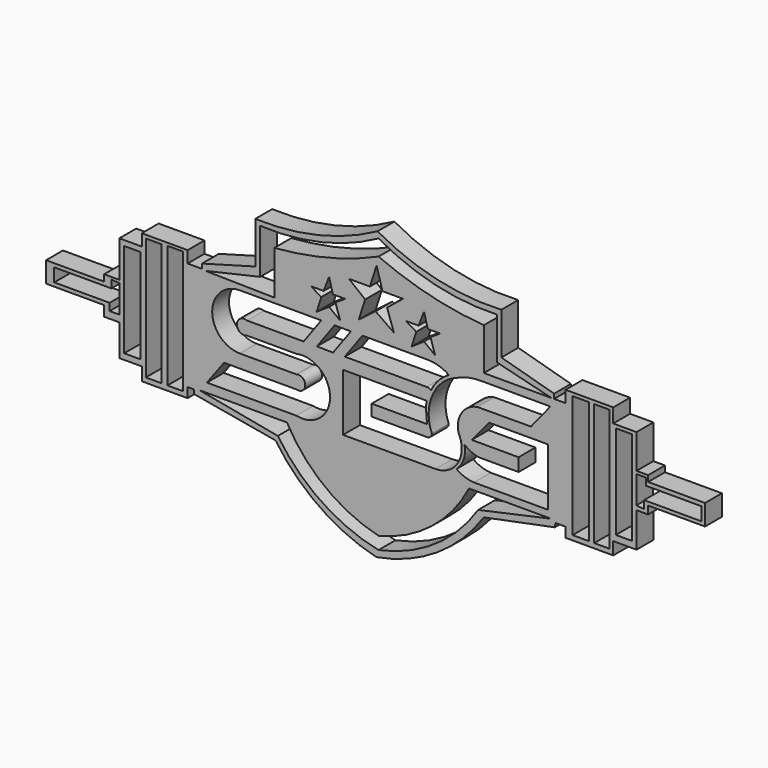
from build123d import *

# Parameters (mm, degrees)
F2_DEPTH = 4
F0_W     = 2.917025
F0_H     = 23.336196
F0_W_2   = 3.025058
F0_H_2   = 23.228157
F0_W_3   = 3.133103
F0_H_3   = 17.934299
F0_W_4   = 3.1331
F0_W_5   = 2.917021
F0_W_6   = 3.025062
F0_H_4   = 17.826262
F3_DEPTH = 25


with BuildPart() as f2:
    # F1 (on Front) → F2 (new body)
    with BuildSketch(Plane.XZ):
        with BuildLine():
            Line((-59.010106, 19.402372), (-59.010106, 15.476667))
            Line((-59.010106, 15.476667), (-47.978758, 15.476667))
            Line((-47.978758, 15.476667), (-47.978758, 13.535213))
            Line((-47.978758, 13.535213), (-45.105844, 13.535213))
            Line((-45.105844, 13.535213), (-45.105844, 7.55553))
            Line((-45.105844, 7.55553), (-40.838248, 7.55553))
            Line((-40.838248, 7.55553), (-40.838248, 5.070467))
            Line((-40.838248, 5.070467), (-32.13955, 5.070467))
            Line((-32.13955, 5.070467), (-32.13955, 6.934264))
            Line((-32.13955, 6.934264), (-30.894838, 6.934264))
            Line((-30.894838, 6.934264), (-30.894838, 6.157682))
            Line((-30.894838, 6.157682), (-15.438591, 3.439646))
            ThreePointArc((-15.438591, 3.439646), (-7.093662, -4.952285), (3.686931, -9.835028))
            ThreePointArc((3.686931, -9.835028), (15.237804, -5.286663), (24.067403, 3.439646))
            Line((24.067403, 3.439646), (37.572917, 6.157682))
            Line((37.572917, 6.157682), (37.709482, 6.934264))
            Line((37.709482, 6.934264), (39.640193, 6.934264))
            Line((39.640193, 6.934264), (39.640193, 5.070467))
            Line((39.640193, 5.070467), (48.666832, 5.070467))
            Line((48.666832, 5.070467), (48.666832, 7.466734))
            Line((48.666832, 7.466734), (53.08931, 7.466734))
            Line((53.08931, 7.466734), (53.08931, 14.068854))
            Line((53.08931, 14.068854), (55.296071, 14.068854))
            Line((55.296071, 14.068854), (55.296071, 15.567532))
            Line((55.296071, 15.567532), (66.105202, 15.567532))
            Line((66.105202, 15.567532), (66.105202, 19.507016))
            Line((66.105202, 19.507016), (55.296071, 19.507016))
            Line((55.296071, 19.507016), (55.296071, 20.643265))
            Line((55.296071, 20.643265), (53.08931, 20.643265))
            Line((53.08931, 20.643265), (53.08931, 27.12328))
            Line((53.08931, 27.12328), (48.666832, 27.12328))
            Line((48.666832, 27.12328), (48.666832, 29.817613))
            Line((48.666832, 29.817613), (39.622009, 29.817613))
            Line((39.622009, 29.817613), (39.622009, 27.58422))
            Line((39.622009, 27.58422), (37.442562, 27.58422))
            Line((37.442562, 27.58422), (37.442562, 28.464854))
            Line((37.442562, 28.464854), (27.430805, 31.257833))
            Line((27.430805, 31.257833), (27.430805, 39.227596))
            ThreePointArc((27.430805, 39.227596), (15.289618, 40.301637), (3.919085, 44.691733))
            ThreePointArc((3.919085, 44.691733), (-7.319875, 40.399028), (-19.293567, 39.227596))
            Line((-19.293567, 39.227596), (-19.293567, 31.257833))
            Line((-19.293567, 31.257833), (-29.408993, 28.464854))
            Line((-29.408993, 28.464854), (-29.408993, 27.58422))
            Line((-29.408993, 27.58422), (-32.13955, 27.58422))
            Line((-32.13955, 27.58422), (-32.13955, 29.817613))
            Line((-32.13955, 29.817613), (-40.838248, 29.817613))
            Line((-40.838248, 29.817613), (-40.838248, 27.58422))
            Line((-40.838248, 27.58422), (-45.105844, 27.58422))
            Line((-45.105844, 27.58422), (-45.105844, 20.643265))
            Line((-45.105844, 20.643265), (-47.978758, 20.643265))
            Line((-47.978758, 20.643265), (-47.978758, 19.402372))
            Line((-47.978758, 19.402372), (-59.010106, 19.402372))
        make_face()
    extrude(amount=F2_DEPTH)

    # F0 (on Front) → F3 (cut)
    with BuildSketch(Plane.XZ):
        with BuildLine():
            Line((-18.360175, 29.837262), (-28.731817, 27.460426))
            Line((-28.731817, 27.460426), (-15.659228, 27.24435))
            Line((-15.659228, 27.24435), (-15.659228, 35.563271))
            ThreePointArc((-15.659228, 35.563271), (-5.560472, 37.199644), (4.111716, 40.533017))
            ThreePointArc((4.111716, 40.533017), (13.897301, 37.211928), (24.098735, 35.563271))
            Line((24.098735, 35.563271), (24.098735, 27.568465))
            Line((24.098735, 27.568465), (36.955252, 27.568465))
            Line((36.955252, 27.568465), (26.583608, 30.161375))
            Line((26.583608, 30.161375), (26.583608, 38.156182))
            ThreePointArc((26.583608, 38.156182), (14.970461, 39.287974), (4.111716, 43.55808))
            ThreePointArc((4.111716, 43.55808), (-6.762464, 39.397518), (-18.360175, 38.37226))
            Line((-18.360175, 38.37226), (-18.360175, 29.837262))
        make_face()
        with BuildLine():
            Line((-13.282392, 7.149293), (-29.920235, 7.149293))
            Line((-29.920235, 7.149293), (-15.011, 4.340306))
            ThreePointArc((-15.011, 4.340306), (-6.711737, -3.965185), (4.111716, -8.516208))
            ThreePointArc((4.111716, -8.516208), (14.859618, -3.991748), (23.018356, 4.340306))
            Line((23.018356, 4.340306), (36.847211, 7.365369))
            Line((36.847211, 7.365369), (21.289749, 7.365369))
            ThreePointArc((21.289749, 7.365369), (14.169619, -1.255427), (4.111716, -6.139375))
            ThreePointArc((4.111716, -6.139375), (-5.975783, -1.315054), (-13.282392, 7.149293))
        make_face()
        with Locations((-34.511848, 17.628974)):
            Rectangle(F0_W, F0_H)
        with Locations((-38.563272, 17.574955)):
            Rectangle(F0_W_2, F0_H_2)
        with Locations((-42.614694, 17.628974)):
            Rectangle(F0_W_3, F0_H_3)
        with Locations((42.519206, 17.574955)):
            Rectangle(F0_W_4, F0_H_2)
        with Locations((46.516609, 17.574955)):
            Rectangle(F0_W_5, F0_H_2)
        with Locations((50.67607, 17.574955)):
            Rectangle(F0_W_6, F0_H_4)
        Polygon((-45.113314, 14.824063), (-45.113314, 20.089325), (-46.601322, 20.203786), (-46.601322, 18.715777), (-57.460032, 18.715777), (-57.460032, 16.197609), (-46.944711, 16.197609), (-46.944711, 14.824063), align=None)
        Polygon((53.042778, 20.115187), (53.042778, 14.849925), (54.530785, 14.735464), (54.530785, 16.223473), (65.389496, 16.223473), (65.389496, 18.741641), (54.874175, 18.741641), (54.874175, 20.115187), align=None)
        Polygon((-6.307463, 31.403811), (-8.711336, 31.403811), (-6.762973, 30.222766), (-7.628314, 27.481353), (-5.277231, 29.067773), (-3.193445, 27.481353), (-4.058785, 30.222766), (-2.219936, 31.403811), (-4.563566, 31.403811), (-5.277231, 34.093976), align=None)
        Polygon((0.340029, 28.745491), (3.549, 31.200001), (7.019212, 28.782552), (5.719735, 32.533981), (8.75185, 34.985866), (4.853417, 34.985866), (3.746455, 38.942028), (2.467324, 34.985866), (-1.498819, 34.985866), (1.565928, 32.533981), align=None)
        Polygon((11.720847, 31.469355), (9.316974, 31.469355), (11.265337, 30.288311), (10.399996, 27.546898), (12.75108, 29.133318), (14.834866, 27.546898), (13.969526, 30.288311), (15.808374, 31.469355), (13.464744, 31.469355), (12.75108, 34.159521), align=None)
        with BuildLine():
            Line((-10.104408, 21.720048), (-6.762973, 26.328867))
            Line((-6.762973, 26.328867), (-22.195523, 26.328867))
            ThreePointArc((-22.195523, 26.328867), (-27.472356, 21.052034), (-22.195523, 15.7752))
            Line((-22.195523, 15.7752), (-11.494022, 15.7752))
            ThreePointArc((-11.494022, 15.7752), (-9.803198, 14.515352), (-11.494022, 13.255504))
            Line((-11.494022, 13.255504), (-25.216663, 13.255504))
            Line((-25.216663, 13.255504), (-28.477632, 8.868717))
            Line((-28.477632, 8.868717), (-11.494022, 8.868717))
            ThreePointArc((-11.494022, 8.868717), (-5.093214, 14.035207), (-11.494022, 19.201698))
            Line((-11.494022, 19.201698), (-20.867361, 19.201698))
            ThreePointArc((-20.867361, 19.201698), (-22.784725, 20.460873), (-20.867361, 21.720048))
            Line((-20.867361, 21.720048), (-10.104408, 21.720048))
        make_face()
        Polygon((-1.143724, 26.328867), (-4.24384, 26.328867), (-7.585275, 21.720048), (-4.52187, 21.669413), align=None)
        with BuildLine():
            Line((13.34219, 26.328867), (1.043928, 26.328867))
            Line((1.043928, 26.328867), (-2.297507, 21.720048))
            Line((-2.297507, 21.720048), (13.266011, 21.720048))
            ThreePointArc((13.266011, 21.720048), (13.694347, 21.646), (14.072965, 21.432452))
            ThreePointArc((14.072965, 21.432452), (15.499101, 23.520872), (17.490635, 25.079448))
            ThreePointArc((17.490635, 25.079448), (15.508445, 26.009733), (13.34219, 26.328867))
        make_face()
        with BuildLine():
            ThreePointArc((13.34219, 15.524202), (13.154137, 17.462209), (13.191477, 19.40896))
            Line((13.191477, 19.40896), (-2.617514, 19.420345))
            Line((-2.617514, 19.420345), (-2.617514, 8.547293))
            Line((-2.617514, 8.547293), (14.928817, 8.547293))
            ThreePointArc((14.928817, 8.547293), (18.632648, 10.199588), (19.877462, 14.059496))
            ThreePointArc((19.877462, 14.059496), (19.710661, 14.956158), (19.37234, 15.803132))
            ThreePointArc((19.37234, 15.803132), (19.828735, 19.448747), (22.880699, 21.494308))
            Line((22.880699, 21.494308), (33.052407, 21.532437))
            Line((33.052407, 21.532437), (36.740046, 26.085043))
            Line((36.740046, 26.085043), (23.597317, 26.085043))
            ThreePointArc((23.597317, 26.085043), (21.245002, 25.857594), (19.004105, 25.106926))
            ThreePointArc((19.004105, 25.106926), (16.307164, 23.497174), (14.465537, 20.952925))
            ThreePointArc((14.465537, 20.952925), (13.626173, 17.635021), (14.236932, 14.267531))
            ThreePointArc((14.236932, 14.267531), (13.983505, 13.619365), (13.34219, 13.349068))
            Line((13.34219, 13.349068), (2.812496, 13.356651))
            Line((2.812496, 13.356651), (2.812496, 15.531785))
            Line((2.812496, 15.531785), (13.34219, 15.524202))
        make_face()
        with BuildLine():
            ThreePointArc((20.401722, 14.443579), (20.297513, 11.942299), (18.916195, 9.854423))
            ThreePointArc((18.916195, 9.854423), (20.481661, 9.019415), (22.221338, 8.670922))
            Line((22.221338, 8.670922), (36.26788, 8.670922))
            Line((36.26788, 8.670922), (36.26788, 19.601882))
            Line((36.26788, 19.601882), (25.08281, 19.601882))
            Line((25.08281, 19.601882), (21.787236, 15.642961))
            Line((21.787236, 15.642961), (30.703217, 15.642961))
            Line((30.703217, 15.642961), (30.703217, 13.16824))
            Line((30.703217, 13.16824), (23.462653, 13.16824))
            ThreePointArc((23.462653, 13.16824), (21.829472, 13.559382), (20.401722, 14.443579))
        make_face()
    extrude(amount=F3_DEPTH, mode=Mode.SUBTRACT)


solid = f2.part
